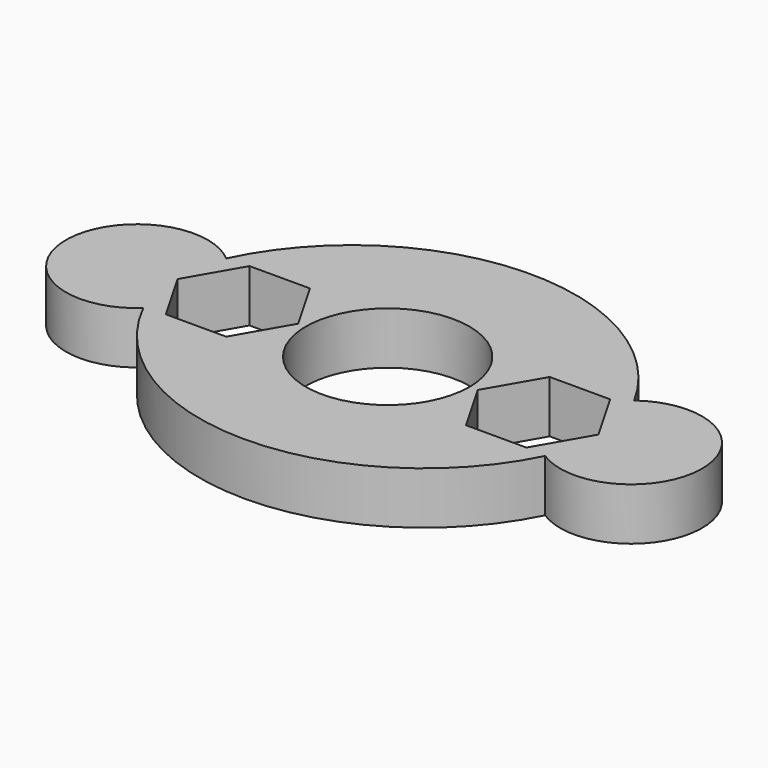
from build123d import *

# Parameters (mm, degrees)
F0_R     = 10.95
F1_DEPTH = 7


with BuildPart() as f1:
    # F0 (on Top) → F1 (new body)
    with BuildSketch(Plane.XY):
        with BuildLine():
            ThreePointArc((26.886002, -7.262236), (28.368444, -3.711389), (29.384189, 0))
            ThreePointArc((29.384189, 0), (28.162244, 4.291398), (26.317312, 8.35409))
            ThreePointArc((26.317312, 8.35409), (-0.849322, 23.940708), (-27.090225, 6.841477))
            ThreePointArc((-27.090225, 6.841477), (-28.443651, 3.48996), (-29.384189, 0))
            ThreePointArc((-29.384189, 0), (-28.351909, -3.759326), (-26.840855, -7.35305))
            ThreePointArc((-26.840855, -7.35305), (0.050708, -23.95269), (26.886002, -7.262236))
        make_face()
        Polygon((-28.139647, 0), (-24.098195, 7), (-16.015291, 7), (-11.973839, 0), (-16.015291, -7), (-24.098195, -7), align=None, mode=Mode.SUBTRACT)
        Circle(F0_R, mode=Mode.SUBTRACT)
        Polygon((28.21831, 0), (24.176858, -7), (16.093955, -7), (12.052503, 0), (16.093955, 7), (24.176858, 7), align=None, mode=Mode.SUBTRACT)
        with BuildLine():
            ThreePointArc((-29.384189, 0), (-28.443651, 3.48996), (-27.090225, 6.841477))
            ThreePointArc((-27.090225, 6.841477), (-42.77684, -0.53356), (-26.840855, -7.35305))
            ThreePointArc((-26.840855, -7.35305), (-28.351909, -3.759326), (-29.384189, 0))
        make_face()
        with BuildLine():
            ThreePointArc((26.317312, 8.35409), (28.162244, 4.291398), (29.384189, 0))
            ThreePointArc((29.384189, 0), (28.368444, -3.711389), (26.886002, -7.262236))
            ThreePointArc((26.886002, -7.262236), (41.495648, 1.088313), (26.317312, 8.35409))
        make_face()
    extrude(amount=F1_DEPTH)


solid = f1.part
